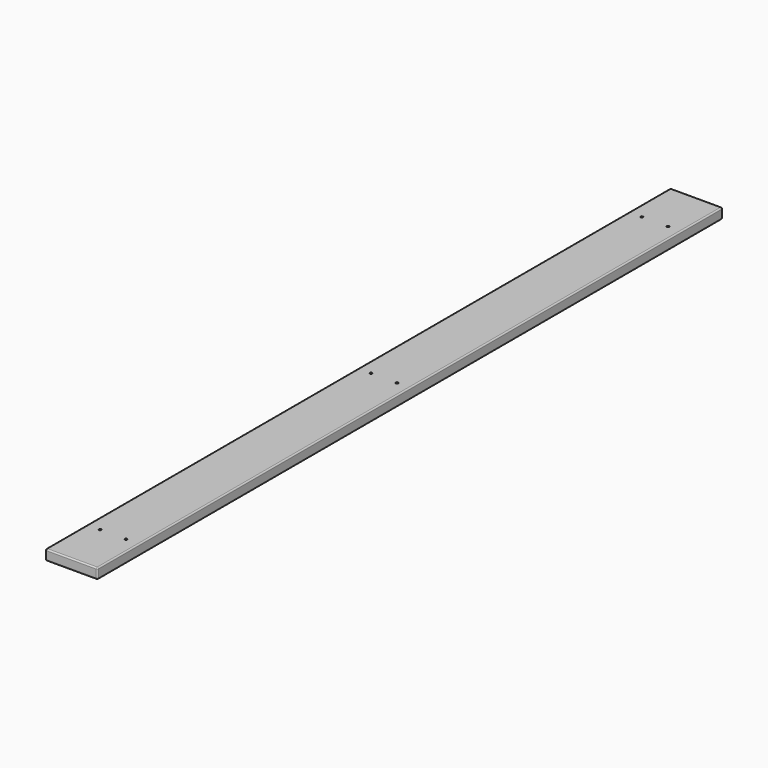
from build123d import *

# Parameters (mm, degrees)
F0_W     = 200
F0_H     = 40
F1_DEPTH = 3000
F2_R     = 4.5
F3_DEPTH = 40.001
F4_R     = 5


with BuildPart() as f1:
    # F0 (on Front) → F1 (new body)
    with BuildSketch(Plane.XZ):
        with Locations((100, 20)):
            Rectangle(F0_W, F0_H)
    extrude(amount=F1_DEPTH)

    # F2 (on face) → F3 (cut, through all)
    with BuildSketch(Plane.XY.offset(40)):
        with Locations((50, -2800)):
            Circle(F2_R)
        with Locations((150, -2800)):
            Circle(F2_R)
        with Locations((50, -200)):
            Circle(F2_R)
        with Locations((150, -200)):
            Circle(F2_R)
        with Locations((50, -1500)):
            Circle(F2_R)
        with Locations((150, -1500)):
            Circle(F2_R)
    extrude(amount=-F3_DEPTH, mode=Mode.SUBTRACT)

    # F4
    f4_edges = [f1.edges().sort_by_distance(p)[0] for p in [
        (0, -1500, 40),
        (0, -1500, 0),
        (200, -1500, 40),
        (200, -1500, 0),
        (100, -3000, 40),
        (100, -3000, 0),
        (0, -3000, 20),
        (200, -3000, 20),
        (200, 0, 20),
        (100, 0, 40),
        (100, 0, 0),
        (0, 0, 20),
    ]]
    fillet(f4_edges, radius=F4_R)


solid = f1.part
